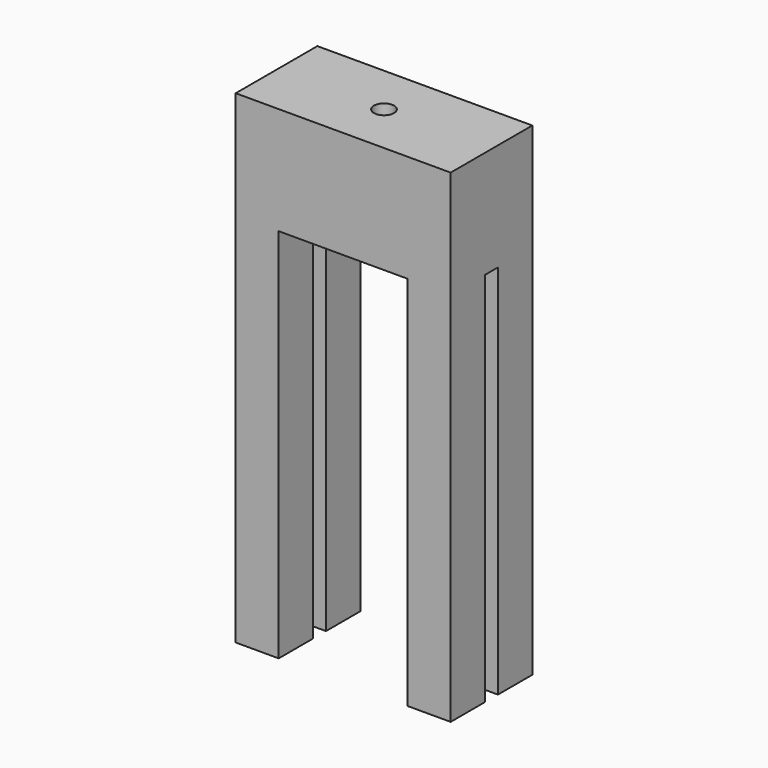
from build123d import *

# Parameters (mm, degrees)
F0_W     = 101.6
F0_H     = 48.26
F1_DEPTH = 114.3
F3_DEPTH = 177.8
F4_R     = 4.7625
F5_DEPTH = 25.4


with BuildPart() as f1:
    # F0 (on Top) → F1 (new body, symmetric)
    with BuildSketch(Plane.XY):
        Rectangle(F0_W, F0_H)
    extrude(amount=F1_DEPTH, both=True)

    # F2 (on face) → F3 (cut)
    with BuildSketch(Plane(origin=(0, 0, -114.3), x_dir=(1, 0, 0), z_dir=(0, 0, -1))):
        Polygon((30.48, 24.13), (-30.48, 24.13), (-30.48, 3.81), (-50.8, 3.81), (-50.8, -3.81), (-30.48, -3.81), (-30.48, -24.13), (30.48, -24.13), (30.48, -3.81), (50.8, -3.81), (50.8, 3.81), (30.48, 3.81), align=None)
    extrude(amount=-F3_DEPTH, mode=Mode.SUBTRACT)

    # F4 (on face) → F5 (cut)
    with BuildSketch(Plane.XY.offset(114.3)):
        Circle(F4_R)
    extrude(amount=-F5_DEPTH, mode=Mode.SUBTRACT)


solid = f1.part
